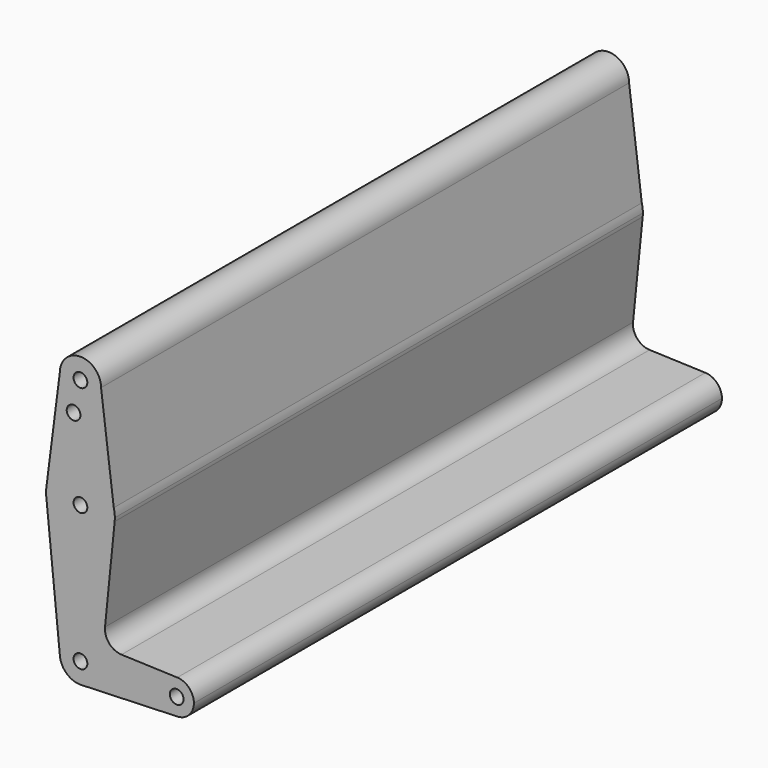
from build123d import *

# Parameters (mm, degrees)
F0_R     = 3.175
F1_DEPTH = 304.8


with BuildPart() as f1:
    # F0 (on Front) → F1 (new body)
    with BuildSketch(Plane.XZ):
        with BuildLine():
            ThreePointArc((-9.525, 114.3), (0, 104.775), (9.525, 114.3))
            ThreePointArc((9.525, 114.3), (0, 123.825), (-9.525, 114.3))
        make_face()
        with Locations((0, 114.3)):
            Circle(F0_R, mode=Mode.SUBTRACT)
        with BuildLine():
            Line((15.386538, 67.407692), (9.525, 114.3))
            ThreePointArc((9.525, 114.3), (0, 104.775), (-9.525, 114.3))
            Line((-9.525, 114.3), (-15.747457, 65.50829))
            ThreePointArc((-15.747457, 65.50829), (-0.966694, 79.34554), (15.386538, 67.407692))
        make_face()
        with Locations((-3.175, 100.0252)):
            Circle(F0_R, mode=Mode.SUBTRACT)
        with BuildLine():
            Line((15.875, 63.5), (15.386538, 67.407692))
            ThreePointArc((15.386538, 67.407692), (-0.966694, 79.34554), (-15.747457, 65.50829))
            ThreePointArc((-15.747457, 65.50829), (-15.873588, 63.711757), (-15.795426, 61.9125))
            ThreePointArc((-15.795426, 61.9125), (0, 47.625), (15.795426, 61.9125))
            ThreePointArc((15.795426, 61.9125), (15.855094, 62.705253), (15.875, 63.5))
        make_face()
        with Locations((0, 63.5)):
            Circle(F0_R, mode=Mode.SUBTRACT)
        with BuildLine():
            ThreePointArc((15.875, 63.5), (15.752411, 65.469051), (15.386538, 67.407692))
            Line((15.386538, 67.407692), (15.875, 63.5))
        make_face()
        with BuildLine():
            ThreePointArc((15.795426, 61.9125), (0, 47.625), (-15.795426, 61.9125))
            Line((-15.795426, 61.9125), (-9.477255, -0.9525))
            ThreePointArc((-9.477255, -0.9525), (-0.476848, 9.513056), (9.525, 0))
            ThreePointArc((9.525, 0), (6.854408, -6.613827), (0.340179, -9.518923))
            Line((0.340179, -9.518923), (44.733482, -7.932436))
            ThreePointArc((44.733482, -7.932436), (36.5125, 0), (44.733482, 7.932436))
            Line((44.733482, 7.932436), (18.9676, 8.853234))
            ThreePointArc((18.9676, 8.853234), (13.2612, 11.571359), (11.341187, 17.593382))
            Line((11.341187, 17.593382), (15.795426, 61.9125))
        make_face()
        with BuildLine():
            ThreePointArc((9.525, 0), (-0.476848, 9.513056), (-9.477255, -0.9525))
            ThreePointArc((-9.477255, -0.9525), (-6.262383, -7.17692), (0.340179, -9.518923))
            ThreePointArc((0.340179, -9.518923), (6.854408, -6.613827), (9.525, 0))
        make_face()
        Circle(F0_R, mode=Mode.SUBTRACT)
        with BuildLine():
            ThreePointArc((44.733482, 7.932436), (36.5125, 0), (44.733482, -7.932436))
            ThreePointArc((44.733482, -7.932436), (50.162007, -5.511523), (52.3875, 0))
            ThreePointArc((52.3875, 0), (50.162007, 5.511523), (44.733482, 7.932436))
        make_face()
        with Locations((44.45, 0)):
            Circle(F0_R, mode=Mode.SUBTRACT)
    extrude(amount=F1_DEPTH)


solid = f1.part
